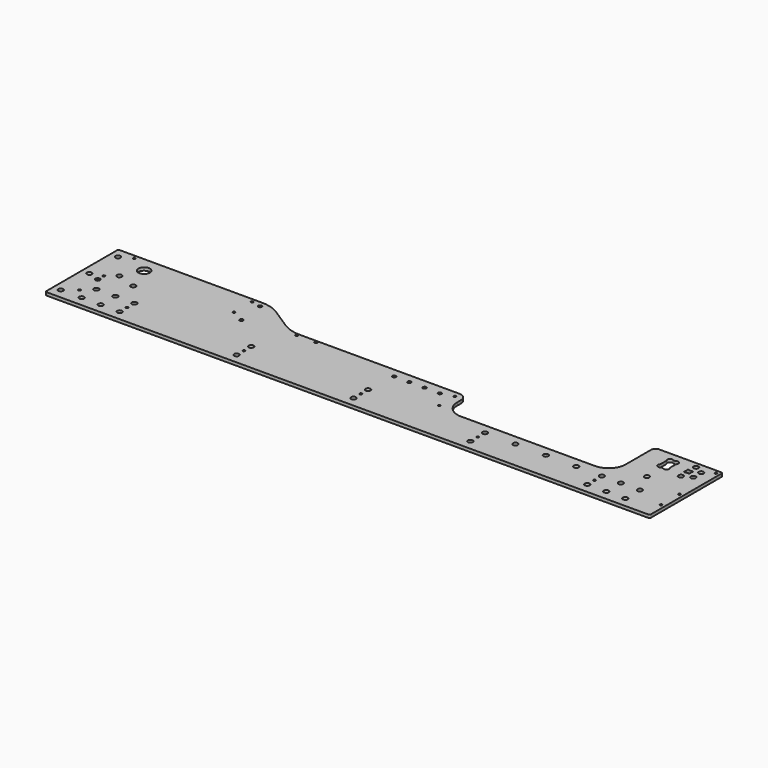
from build123d import *

# Parameters (mm, degrees)
SKETCH_R        = 6.5
SKETCH_R_2      = 3
SKETCH_R_3      = 4.5
SKETCH_R_4      = 3.5
PAD_DEPTH       = 8
CHAMFER_SIZE    = 4
CHAMFER001_SIZE = 2.5


with BuildPart() as part:
    # Sketch → Pad (new body)
    with BuildSketch(Plane.XY):
        with BuildLine():
            Line((223, 0), (576, 0))
            ThreePointArc((576, 0), (607.819805, 13.180195), (621, 45))
            Line((621, 45), (621, 128))
            ThreePointArc((633, 140), (624.514719, 136.485281), (621, 128))
            Line((633, 140), (796, 140))
            ThreePointArc((800, 136), (798.828427, 138.828427), (796, 140))
            Line((800, -96), (800, 136))
            ThreePointArc((796, -100), (798.828427, -98.828427), (800, -96))
            Line((796, -100), (-786, -100))
            ThreePointArc((-790, -96), (-788.828427, -98.828427), (-786, -100))
            Line((-790, 136), (-790, -96))
            ThreePointArc((-786, 140), (-788.828427, 138.828427), (-790, 136))
            Line((-786, 140), (-412, 140))
            ThreePointArc((-362.763287, 125.337548), (-386.313226, 136.256534), (-412, 140))
            Line((-362.763287, 125.337548), (-311.236713, 91.662452))
            ThreePointArc((-311.236713, 91.662452), (-287.686774, 80.743466), (-262, 77))
            Line((-262, 77), (158, 77))
            ThreePointArc((178, 57), (172.142136, 71.142136), (158, 77))
            Line((178, 57), (178, 45))
            ThreePointArc((178, 45), (191.180195, 13.180195), (223, 0))
        make_face()
        with Locations((-715, 50)):
            Circle(SKETCH_R, mode=Mode.SUBTRACT)
        with Locations((-665, 33)):
            Circle(SKETCH_R, mode=Mode.SUBTRACT)
        with Locations((-715, -26)):
            Circle(SKETCH_R, mode=Mode.SUBTRACT)
        with Locations((-307.5, -26)):
            Circle(SKETCH_R, mode=Mode.SUBTRACT)
        with Locations((-307.5, -74)):
            Circle(SKETCH_R, mode=Mode.SUBTRACT)
        with Locations((0, -74)):
            Circle(SKETCH_R, mode=Mode.SUBTRACT)
        with Locations((0, -26)):
            Circle(SKETCH_R, mode=Mode.SUBTRACT)
        with Locations((307.5, -74)):
            Circle(SKETCH_R, mode=Mode.SUBTRACT)
        with Locations((307.5, -26)):
            Circle(SKETCH_R, mode=Mode.SUBTRACT)
        with Locations((715, -26)):
            Circle(SKETCH_R, mode=Mode.SUBTRACT)
        with Locations((715, -74)):
            Circle(SKETCH_R, mode=Mode.SUBTRACT)
        with Locations((307.5, -50)):
            Circle(SKETCH_R_2, mode=Mode.SUBTRACT)
        with Locations((-307.5, -50)):
            Circle(SKETCH_R_2, mode=Mode.SUBTRACT)
        with Locations((-715, -74)):
            Circle(SKETCH_R, mode=Mode.SUBTRACT)
        with Locations((-430, 130)):
            Circle(SKETCH_R_2, mode=Mode.SUBTRACT)
        with Locations((-430, 71)):
            Circle(SKETCH_R_2, mode=Mode.SUBTRACT)
        with Locations((615, -26)):
            Circle(SKETCH_R, mode=Mode.SUBTRACT)
        with Locations((665, -26)):
            Circle(SKETCH_R, mode=Mode.SUBTRACT)
        with Locations((615, -74)):
            Circle(SKETCH_R, mode=Mode.SUBTRACT)
        with Locations((665, -74)):
            Circle(SKETCH_R, mode=Mode.SUBTRACT)
        with Locations((0, -50)):
            Circle(SKETCH_R_2, mode=Mode.SUBTRACT)
        with Locations((790, -50)):
            Circle(SKETCH_R_2, mode=Mode.SUBTRACT)
        with Locations((742, 125)):
            Circle(SKETCH_R, mode=Mode.SUBTRACT)
        with Locations((765, 113)):
            Circle(SKETCH_R, mode=Mode.SUBTRACT)
        with Locations((765, 87)):
            Circle(SKETCH_R, mode=Mode.SUBTRACT)
        with Locations((742, 75)):
            Circle(SKETCH_R, mode=Mode.SUBTRACT)
        with Locations((-665, -74)):
            Circle(SKETCH_R, mode=Mode.SUBTRACT)
        with Locations((-615, -74)):
            Circle(SKETCH_R, mode=Mode.SUBTRACT)
        with Locations((-665, -26)):
            Circle(SKETCH_R, mode=Mode.SUBTRACT)
        with Locations((-615, -26)):
            Circle(SKETCH_R, mode=Mode.SUBTRACT)
        with Locations((-396.782, 53.2)):
            Circle(SKETCH_R_3, mode=Mode.SUBTRACT)
        with Locations((5.218, 53.2)):
            Circle(SKETCH_R_3, mode=Mode.SUBTRACT)
        with Locations((45.218, 53.2)):
            Circle(SKETCH_R_3, mode=Mode.SUBTRACT)
        with Locations((85.218, 53.2)):
            Circle(SKETCH_R_3, mode=Mode.SUBTRACT)
        with Locations((125.218, 53.2)):
            Circle(SKETCH_R_3, mode=Mode.SUBTRACT)
        with Locations((790, 10)):
            Circle(SKETCH_R_2, mode=Mode.SUBTRACT)
        with Locations((790, 130)):
            Circle(SKETCH_R_2, mode=Mode.SUBTRACT)
        with Locations((-740, -50)):
            Circle(SKETCH_R_2, mode=Mode.SUBTRACT)
        with Locations((-740, 10)):
            Circle(SKETCH_R_4, mode=Mode.SUBTRACT)
        with Locations((-740, 130)):
            Circle(SKETCH_R_2, mode=Mode.SUBTRACT)
        with Locations((387.5, -26)):
            Circle(SKETCH_R, mode=Mode.SUBTRACT)
        with Locations((467.5, -26)):
            Circle(SKETCH_R, mode=Mode.SUBTRACT)
        with Locations((547.5, -26)):
            Circle(SKETCH_R, mode=Mode.SUBTRACT)
        with Locations((158, 62)):
            Circle(SKETCH_R_2, mode=Mode.SUBTRACT)
        with Locations((158, 10)):
            Circle(SKETCH_R_2, mode=Mode.SUBTRACT)
        with Locations((-770, -74)):
            Circle(SKETCH_R, mode=Mode.SUBTRACT)
        with Locations((-770, 114)):
            Circle(SKETCH_R, mode=Mode.SUBTRACT)
        with Locations((-740, 30)):
            Circle(SKETCH_R_2, mode=Mode.SUBTRACT)
        with Locations((-770, 20)):
            Circle(SKETCH_R, mode=Mode.SUBTRACT)
        with Locations((-405, 125)):
            Circle(SKETCH_R_3, mode=Mode.SUBTRACT)
        with Locations((688.8, 30)):
            Circle(SKETCH_R, mode=Mode.SUBTRACT)
        with Locations((-265.282, 71)):
            Circle(SKETCH_R_4, mode=Mode.SUBTRACT)
        with Locations((-215.282, 71)):
            Circle(SKETCH_R_4, mode=Mode.SUBTRACT)
        with Locations((615, -50)):
            Circle(SKETCH_R_2, mode=Mode.SUBTRACT)
        with Locations((-615, -50)):
            Circle(SKETCH_R_2, mode=Mode.SUBTRACT)
        with BuildLine():
            ThreePointArc((-690, 85), (-675, 100), (-690, 115))
            ThreePointArc((-690, 115), (-705, 100), (-690, 85))
        make_face(mode=Mode.SUBTRACT)
        with BuildLine():
            Line((688.243823, 120.3), (689.056177, 120.3))
            ThreePointArc((689.056177, 120.3), (690.950364, 120.561153), (692.703215, 121.325126))
            ThreePointArc((702.325126, 111.703215), (701.3, 120.3), (692.703215, 121.325126))
            ThreePointArc((702.325126, 111.703215), (701.561153, 109.950364), (701.3, 108.056177))
            Line((701.3, 108.056177), (701.3, 91.943823))
            ThreePointArc((701.3, 91.943823), (701.561153, 90.049636), (702.325126, 88.296785))
            ThreePointArc((692.703215, 78.674874), (701.3, 79.7), (702.325126, 88.296785))
            ThreePointArc((692.703215, 78.674874), (690.950364, 79.438847), (689.056177, 79.7))
            Line((689.056177, 79.7), (688.243823, 79.7))
            ThreePointArc((688.243823, 79.7), (686.349636, 79.438847), (684.596785, 78.674874))
            ThreePointArc((674.974874, 88.296785), (676, 79.7), (684.596785, 78.674874))
            ThreePointArc((674.974874, 88.296785), (675.738847, 90.049636), (676, 91.943823))
            Line((676, 91.943823), (676, 108.056177))
            ThreePointArc((676, 108.056177), (675.738847, 109.950364), (674.974874, 111.703215))
            ThreePointArc((684.596785, 121.325126), (676, 120.3), (674.974874, 111.703215))
            ThreePointArc((684.596785, 121.325126), (686.349636, 120.561153), (688.243823, 120.3))
        make_face(mode=Mode.SUBTRACT)
        with BuildLine():
            Line((738.898235, 106.2), (745.101765, 106.2))
            ThreePointArc((745.101765, 106.2), (745.642961, 106.274615), (746.143776, 106.492893))
            ThreePointArc((748.892893, 103.743776), (748.6, 106.2), (746.143776, 106.492893))
            ThreePointArc((748.892893, 103.743776), (748.674615, 103.242961), (748.6, 102.701765))
            Line((748.6, 102.701765), (748.6, 97.298235))
            ThreePointArc((748.6, 97.298235), (748.674615, 96.757039), (748.892893, 96.256224))
            ThreePointArc((746.143776, 93.507107), (748.6, 93.8), (748.892893, 96.256224))
            ThreePointArc((746.143776, 93.507107), (745.642961, 93.725385), (745.101765, 93.8))
            Line((745.101765, 93.8), (738.898235, 93.8))
            ThreePointArc((738.898235, 93.8), (738.357039, 93.725385), (737.856224, 93.507107))
            ThreePointArc((735.107107, 96.256224), (735.4, 93.8), (737.856224, 93.507107))
            ThreePointArc((735.107107, 96.256224), (735.325385, 96.757039), (735.4, 97.298235))
            Line((735.4, 97.298235), (735.4, 102.701765))
            ThreePointArc((735.4, 102.701765), (735.325385, 103.242961), (735.107107, 103.743776))
            ThreePointArc((737.856224, 106.492893), (735.4, 106.2), (735.107107, 103.743776))
            ThreePointArc((737.856224, 106.492893), (738.357039, 106.274615), (738.898235, 106.2))
        make_face(mode=Mode.SUBTRACT)
    extrude(amount=PAD_DEPTH)

    # Chamfer
    chamfer_edges = [part.edges().sort_by_distance(p)[0] for p in [
        (-3, -50, 0),
        (-310.5, -50, 0),
        (155, 10, 0),
        (-743, 30, 0),
        (-618, -50, 0),
        (-743, 130, 0),
        (-743, -50, 0),
        (612, -50, 0),
        (155, 62, 0),
        (304.5, -50, 0),
    ]]
    chamfer(chamfer_edges, length=CHAMFER_SIZE)

    # Chamfer001
    chamfer001_edges = [part.edges().sort_by_distance(p)[0] for p in [
        (-743.5, 10, 8),
    ]]
    chamfer(chamfer001_edges, length=CHAMFER001_SIZE)


solid = part.part
